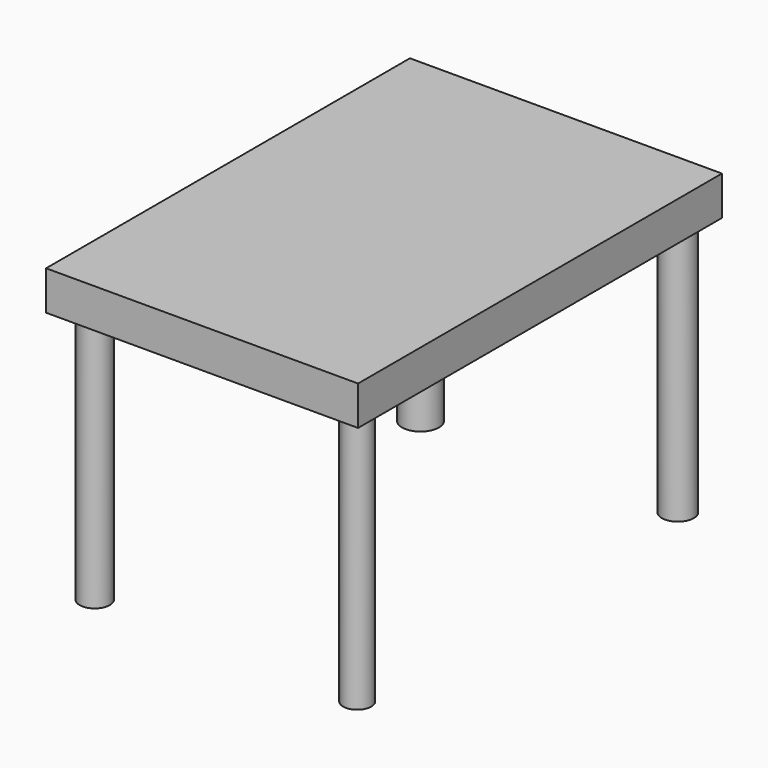
from build123d import *

# Parameters (mm, degrees)
F0_W     = 89.114376
F0_H     = 129.904926
F1_DEPTH = 11.176
F2_R     = 5.277651
F6_DEPTH = 74.422
F3_R     = 4.552344
F7_DEPTH = 74.168
F4_R     = 4.294458
F8_DEPTH = 73.406
F5_R     = 4.020045
F9_DEPTH = 74.422


with BuildPart() as f1:
    # F0 (on Top) → F1 (new body)
    with BuildSketch(Plane.XY):
        Rectangle(F0_W, F0_H)
    extrude(amount=F1_DEPTH)

    # F2 (on Top) → F6 (join)
    with BuildSketch(Plane.XY):
        with Locations((-36.073875, 58.119018)):
            Circle(F2_R)
    extrude(amount=-F6_DEPTH)

    # F3 (on face) → F7 (join)
    with BuildSketch(Plane(origin=(0, 0, 0), x_dir=(1, 0, 0), z_dir=(0, 0, -1))):
        with Locations((36.690522, -59.043989)):
            Circle(F3_R)
    extrude(amount=F7_DEPTH)

    # F4 (on Top) → F8 (join)
    with BuildSketch(Plane.XY):
        with Locations((-37.615493, -56.269072)):
            Circle(F4_R)
    extrude(amount=-F8_DEPTH)

    # F5 (on Top) → F9 (join)
    with BuildSketch(Plane.XY):
        with Locations((37.615493, -56.577403)):
            Circle(F5_R)
    extrude(amount=-F9_DEPTH)


solid = f1.part
